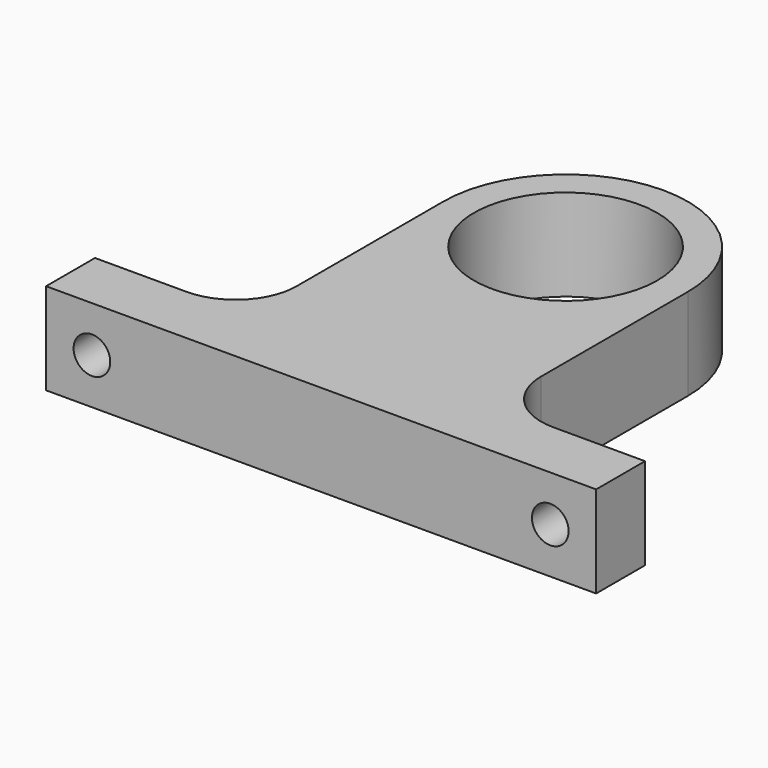
from build123d import *

# Parameters (mm, degrees)
F0_R     = 9.525
F1_DEPTH = 9.525
F2_R     = 1.905
F3_DEPTH = 25.4


with BuildPart() as f1:
    # F0 (on Top) → F1 (new body)
    with BuildSketch(Plane.XY):
        with BuildLine():
            Line((-28.575, -12.7), (-28.575, -19.05))
            Line((-28.575, -19.05), (0, -19.05))
            Line((0, -19.05), (28.575, -19.05))
            Line((28.575, -19.05), (28.575, -12.7))
            Line((28.575, -12.7), (19.05, -12.7))
            ThreePointArc((19.05, -12.7), (14.559872, -10.840128), (12.7, -6.35))
            Line((12.7, -6.35), (12.7, 12.7))
            ThreePointArc((12.7, 12.7), (8.980256, 21.680256), (0, 25.4))
            ThreePointArc((0, 25.4), (-8.980256, 21.680256), (-12.7, 12.7))
            Line((-12.7, 12.7), (-12.7, -6.35))
            ThreePointArc((-12.7, -6.35), (-14.559872, -10.840128), (-19.05, -12.7))
            Line((-19.05, -12.7), (-28.575, -12.7))
        make_face()
        with Locations((0, 12.7)):
            Circle(F0_R, mode=Mode.SUBTRACT)
    extrude(amount=F1_DEPTH)

    # F2 (on face) → F3 (cut)
    with BuildSketch(Plane.XZ.offset(19.05)):
        with Locations((-23.8125, 4.7625)):
            Circle(F2_R)
        with Locations((23.8125, 4.7625)):
            Circle(F2_R)
    extrude(amount=-F3_DEPTH, mode=Mode.SUBTRACT)


solid = f1.part
